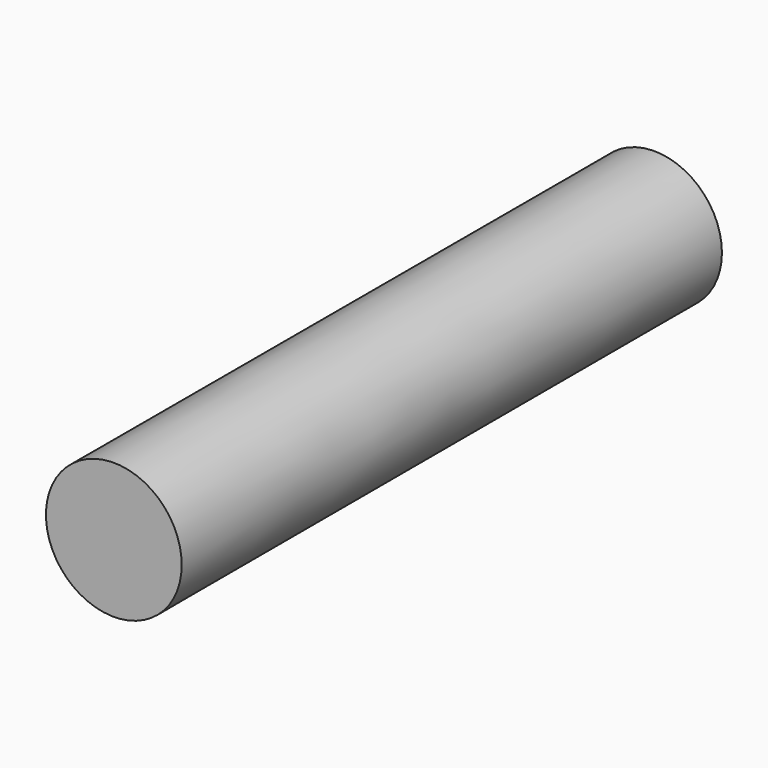
from build123d import *

# Parameters (mm, degrees)
F0_R = 10
F2_R = 10.045


with BuildPart() as f3:
    # F0 (on Front) → F3 section 0
    with BuildSketch(Plane.XZ):
        Circle(F0_R)
    # F2 (on offset) → F3 section 1
    with BuildSketch(Plane.XZ.offset(100)):
        Circle(F2_R)
    loft()


solid = f3.part
